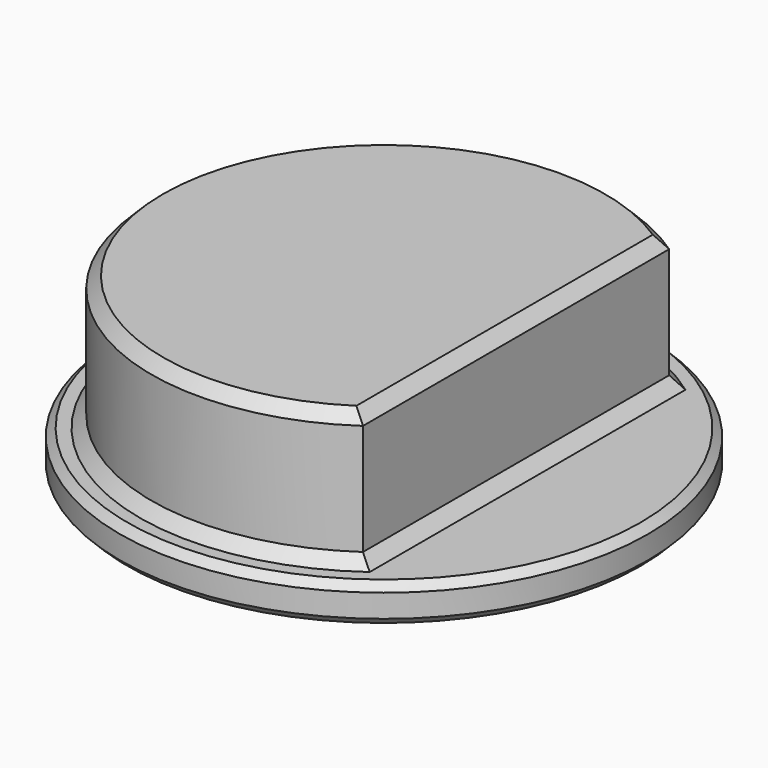
from build123d import *

# Parameters (mm, degrees)
F0_R     = 17.526
F1_DEPTH = 2.54
F3_DEPTH = 8.89
F4_SIZE  = 0.762
F5_SIZE  = 0.508


with BuildPart() as f1:
    # F0 (on Top) → F1 (new body)
    with BuildSketch(Plane.XY):
        Circle(F0_R)
    extrude(amount=F1_DEPTH)

    # F2 (on face) → F3 (join)
    with BuildSketch(Plane.XY.offset(2.54)):
        with BuildLine():
            Line((8.76415, -12.7), (8.76415, 12.7))
            ThreePointArc((8.76415, 12.7), (-15.4305, 0), (8.76415, -12.7))
        make_face()
    extrude(amount=F3_DEPTH)

    # F4
    f4_edges = [f1.edges().sort_by_distance(p)[0] for p in [
        (-15.4305, 0, 11.43),
        (8.76415, 0, 11.43),
        (8.76415, 0, 2.54),
        (-15.4305, 0, 2.54),
    ]]
    chamfer(f4_edges, length=F4_SIZE)

    # F5
    f5_edges = [f1.edges().sort_by_distance(p)[0] for p in [
        (-17.526, 0, 2.54),
        (-17.526, 0, 0),
    ]]
    chamfer(f5_edges, length=F5_SIZE)


solid = f1.part
